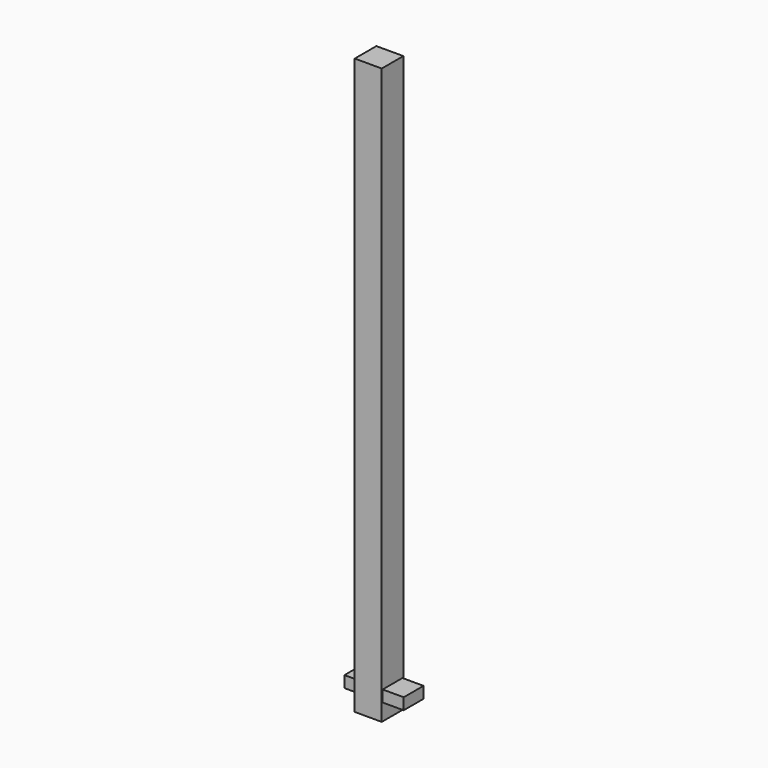
from build123d import *

# Parameters (mm, degrees)
F0_W     = 73
F0_H     = 73
F1_DEPTH = 1555
F2_W     = 65
F2_H     = 31
F3_DEPTH = 31
F4_W     = 67
F4_H     = 31
F5_DEPTH = 57


with BuildPart() as f1:
    # F0 (on Top) → F1 (new body)
    with BuildSketch(Plane.XY):
        Rectangle(F0_W, F0_H)
    extrude(amount=F1_DEPTH)

    # F2 (on face) → F3 (join)
    with BuildSketch(Plane(origin=(-36.5, 0, 0), x_dir=(0, -1, 0), z_dir=(-1, 0, 0))):
        with Locations((0, 60.5)):
            Rectangle(F2_W, F2_H)
    extrude(amount=F3_DEPTH)

    # F4 (on face) → F5 (join)
    with BuildSketch(Plane.YZ.offset(36.5)):
        with Locations((0, 60.5)):
            Rectangle(F4_W, F4_H)
    extrude(amount=F5_DEPTH)


solid = f1.part
